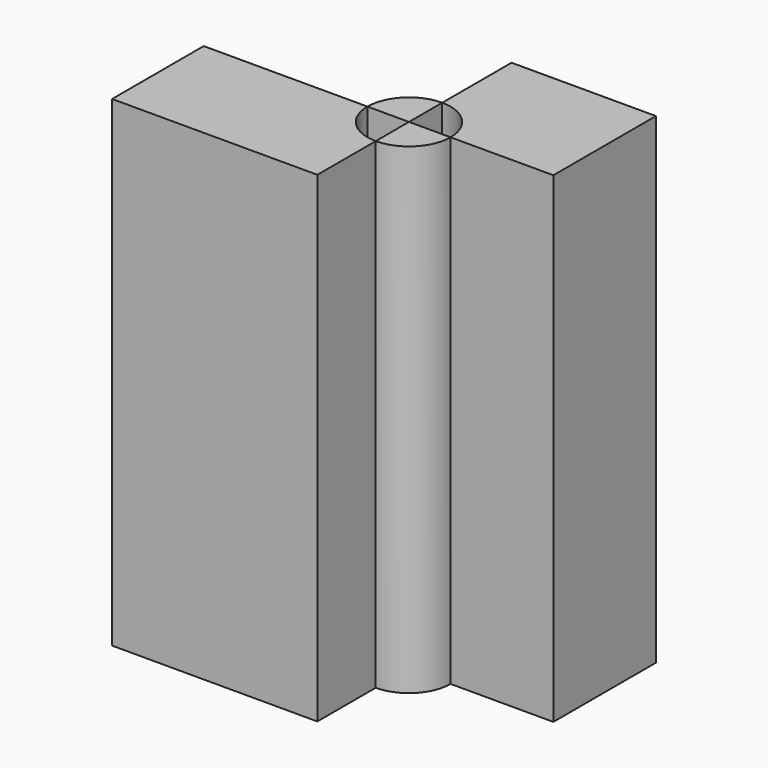
from build123d import *

# Parameters (mm, degrees)
F1_DEPTH = 27.178


with BuildPart() as f1:
    # F0 (on Top) → F1 (new body)
    with BuildSketch(Plane.XY):
        with BuildLine():
            Line((2.5301300921, -0.3222003579), (2.5301300921, -5.2159677871))
            ThreePointArc((2.5301300921, -5.2159677871), (4.1896841385, -5.9033775806), (4.877093932, -7.562931627))
            Line((4.877093932, -7.562931627), (10.6824431568, -7.562931627))
            Line((10.6824431568, -7.562931627), (10.6824431568, -0.3222003579))
            Line((10.6824431568, -0.3222003579), (2.5301300921, -0.3222003579))
        make_face()
    extrude(amount=F1_DEPTH)


with BuildPart() as f1b:
    # F0 (on Top) → F1, piece 2 (new body)
    with BuildSketch(Plane.XY):
        with BuildLine():
            Line((0.1831662521, -7.562931627), (-9.0627325699, -7.562931627))
            Line((-9.0627325699, -7.562931627), (-9.0627325699, -14.0296872705))
            Line((-9.0627325699, -14.0296872705), (2.5301300921, -14.0296872705))
            Line((2.5301300921, -14.0296872705), (2.5301300921, -9.909895467))
            ThreePointArc((2.5301300921, -9.909895467), (0.8705760456, -9.2224856734), (0.1831662521, -7.562931627))
        make_face()
    extrude(amount=F1_DEPTH)


with BuildPart() as f1c:
    # F0 (on Top) → F1, piece 3 (new body)
    with BuildSketch(Plane.XY):
        with BuildLine():
            Line((4.877093932, -7.562931627), (2.5301300921, -7.562931627))
            Line((2.5301300921, -7.562931627), (2.5301300921, -9.909895467))
            ThreePointArc((2.5301300921, -9.909895467), (4.1896841385, -9.2224856734), (4.877093932, -7.562931627))
        make_face()
    extrude(amount=F1_DEPTH)


with BuildPart() as f1d:
    # F0 (on Top) → F1, piece 4 (new body)
    with BuildSketch(Plane.XY):
        with BuildLine():
            ThreePointArc((2.5301300921, -5.2159677871), (0.8705760456, -5.9033775806), (0.1831662521, -7.562931627))
            Line((0.1831662521, -7.562931627), (2.5301300921, -7.562931627))
            Line((2.5301300921, -7.562931627), (2.5301300921, -5.2159677871))
        make_face()
    extrude(amount=F1_DEPTH)


solid = Compound([f1.part, f1b.part, f1c.part, f1d.part])
